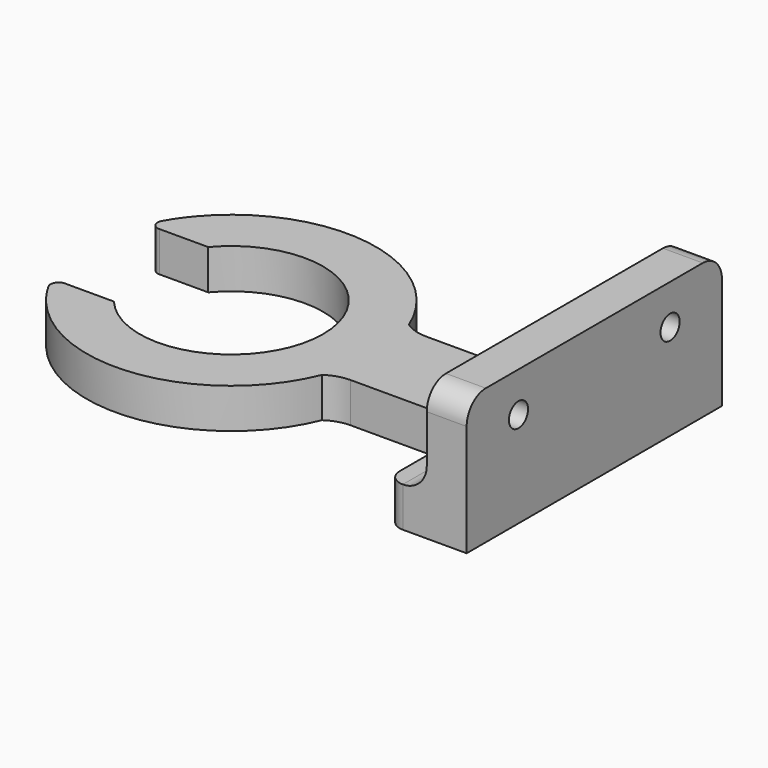
from build123d import *

# Parameters (mm, degrees)
F1_DEPTH = 5
F2_W     = 5
F2_H     = 40
F3_DEPTH = 12
F4_R     = 3
F5_R     = 1.5
F6_DEPTH = 10


with BuildPart() as f1:
    # F0 (on Top) → F1 (new body)
    with BuildSketch(Plane.XY):
        with BuildLine():
            ThreePointArc((-8.809511, 7.392058), (11.5, 0), (-8.809511, -7.392058))
            Line((-8.809511, -7.392058), (-14.94391, -7.392058))
            ThreePointArc((-14.94391, -7.392058), (-15.806941, -7.886907), (-15.815832, -8.881703))
            ThreePointArc((-15.815832, -8.881703), (-14.920363, -10.315422), (-13.895319, -11.659557))
            ThreePointArc((-13.895319, -11.659557), (2.827372, -17.917342), (16.810487, -6.814154))
            ThreePointArc((16.810487, -6.814154), (18.174589, -6.14164), (19.677769, -5.910335))
            Line((19.677769, -5.910335), (30.5, -5.910335))
            ThreePointArc((30.5, -5.910335), (34.035534, -7.374801), (35.5, -10.910335))
            Line((35.5, -10.910335), (35.5, -18))
            ThreePointArc((35.5, -18), (36.085786, -19.414214), (37.5, -20))
            Line((37.5, -20), (45.5, -20))
            Line((45.5, -20), (45.5, 0))
            Line((45.5, 0), (45.5, 20))
            Line((45.5, 20), (37.5, 20))
            ThreePointArc((37.5, 20), (36.085786, 19.414214), (35.5, 18))
            Line((35.5, 18), (35.5, 10.910335))
            ThreePointArc((35.5, 10.910335), (34.035534, 7.374801), (30.5, 5.910335))
            Line((30.5, 5.910335), (19.677769, 5.910335))
            ThreePointArc((19.677769, 5.910335), (18.174589, 6.14164), (16.810487, 6.814154))
            ThreePointArc((16.810487, 6.814154), (2.827372, 17.917342), (-13.895319, 11.659557))
            ThreePointArc((-13.895319, 11.659557), (-14.920363, 10.315422), (-15.815832, 8.881703))
            ThreePointArc((-15.815832, 8.881703), (-15.806941, 7.886907), (-14.94391, 7.392058))
            Line((-14.94391, 7.392058), (-8.809511, 7.392058))
        make_face()
    extrude(amount=F1_DEPTH)

    # F2 (on face) → F3 (join)
    with BuildSketch(Plane.XY.offset(5)):
        with Locations((43, 0)):
            Rectangle(F2_W, F2_H)
    extrude(amount=F3_DEPTH)

    # F4
    f4_edges = [f1.edges().sort_by_distance(p)[0] for p in [
        (40.5, 0, 5),
        (43, 20, 17),
        (43, -20, 17),
    ]]
    fillet(f4_edges, radius=F4_R)

    # F5 (on face) → F6 (cut)
    with BuildSketch(Plane(origin=(40.5, 0, 0), x_dir=(0, -1, 0), z_dir=(-1, 0, 0))):
        with Locations((-11.877556, 12)):
            Circle(F5_R)
        with Locations((11.877556, 12)):
            Circle(F5_R)
    extrude(amount=-F6_DEPTH, mode=Mode.SUBTRACT)


solid = f1.part
